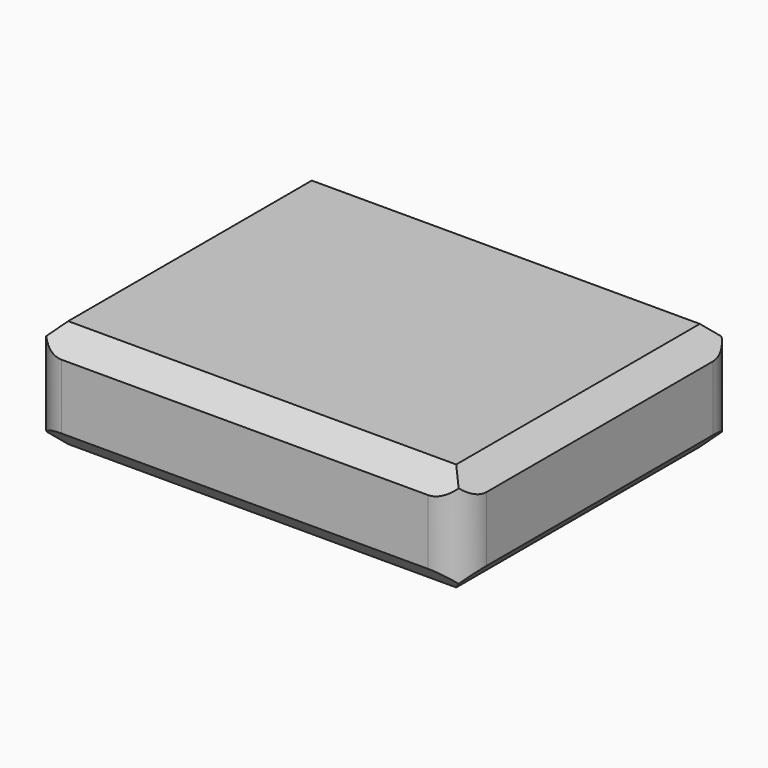
from build123d import *

# Parameters (mm, degrees)
F0_W     = 101.186872
F0_H     = 81.592738
F1_DEPTH = 25.4
F2_SIZE  = 5.08
F3_SIZE  = 5.08
F4_R     = 7.62


with BuildPart() as f1:
    # F0 (on Top) → F1 (new body)
    with BuildSketch(Plane.XY):
        Rectangle(F0_W, F0_H)
    extrude(amount=F1_DEPTH)

    # F2
    f2_edges = [f1.edges().sort_by_distance(p)[0] for p in [
        (0, -40.796369, 0),
        (-50.593436, 0, 0),
        (0, 40.796369, 0),
        (50.593436, 0, 0),
    ]]
    chamfer(f2_edges, length=F2_SIZE)

    # F3
    f3_edges = [f1.edges().sort_by_distance(p)[0] for p in [
        (0, -40.796369, 25.4),
        (50.593436, 0, 25.4),
        (0, 40.796369, 25.4),
        (-50.593436, 0, 25.4),
    ]]
    chamfer(f3_edges, length=F3_SIZE)

    # F4
    f4_edges = [f1.edges().sort_by_distance(p)[0] for p in [
        (-50.593436, -40.796369, 12.7),
        (-50.593436, 40.796369, 12.7),
        (50.593436, 40.796369, 12.7),
        (50.593436, -40.796369, 12.7),
    ]]
    fillet(f4_edges, radius=F4_R)


solid = f1.part
